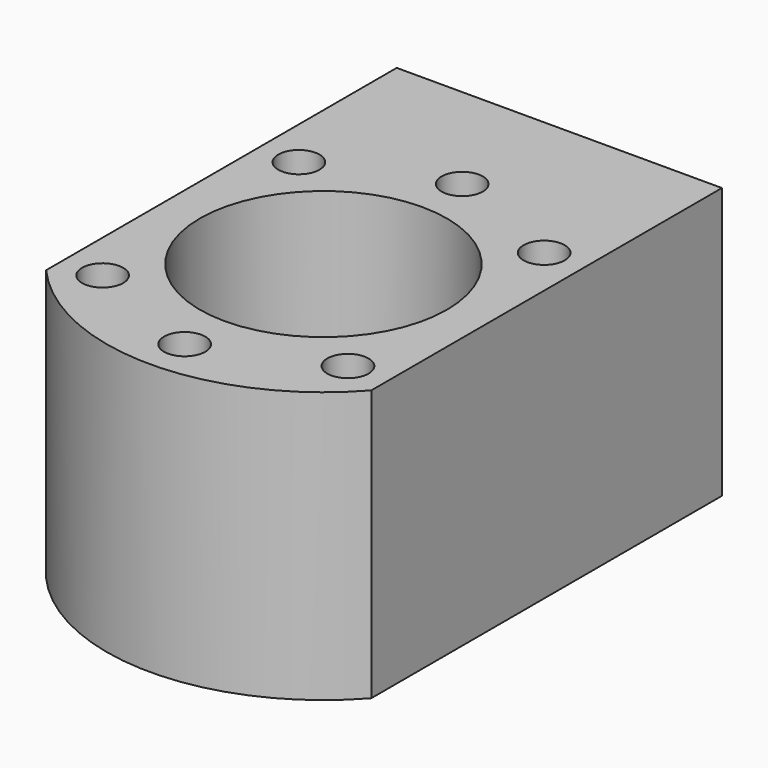
from build123d import *

# Parameters (mm, degrees)
F0_R     = 1.9
F0_R_2   = 11.4
F1_DEPTH = 25
F3_DEPTH = 15.2


with BuildPart() as f1:
    # F0 (on Top) → F1 (new body)
    with BuildSketch(Plane.XY):
        with BuildLine():
            ThreePointArc((-15, 13.228757), (0, 20), (15, 13.228757))
            Line((15, 13.228757), (15, 27.2))
            Line((15, 27.2), (-15, 27.2))
            Line((-15, 27.2), (-15, 13.228757))
        make_face()
        with BuildLine():
            ThreePointArc((-15, -13.228757), (0, -20), (15, -13.228757))
            Line((15, -13.228757), (15, 13.228757))
            ThreePointArc((15, 13.228757), (0, 20), (-15, 13.228757))
            Line((-15, 13.228757), (-15, -13.228757))
        make_face()
        with Locations((-11.313708, -11.313708)):
            Circle(F0_R, mode=Mode.SUBTRACT)
        with Locations((0, -16)):
            Circle(F0_R, mode=Mode.SUBTRACT)
        with Locations((11.313708, -11.313708)):
            Circle(F0_R, mode=Mode.SUBTRACT)
        with Locations((-11.313708, 11.313708)):
            Circle(F0_R, mode=Mode.SUBTRACT)
        Circle(F0_R_2, mode=Mode.SUBTRACT)
        with Locations((11.313708, 11.313708)):
            Circle(F0_R, mode=Mode.SUBTRACT)
        with Locations((0, 16)):
            Circle(F0_R, mode=Mode.SUBTRACT)
        with BuildLine():
            ThreePointArc((-15, 13.228757), (0, 20), (15, 13.228757))
            Line((15, 13.228757), (15, 27.2))
            Line((15, 27.2), (-15, 27.2))
            Line((-15, 27.2), (-15, 13.228757))
        make_face()
    extrude(amount=F1_DEPTH)

    # F2 (on face) → F3 (cut)
    with BuildSketch(Plane(origin=(0, 27.2, 0), x_dir=(-1, 0, 0), z_dir=(0, 1, 0))):
        with BuildLine():
            ThreePointArc((-1.5, 12.5), (-3.4, 14.4), (-5.3, 12.5))
            Line((-5.3, 12.5), (-1.5, 12.5))
        make_face()
        with BuildLine():
            ThreePointArc((9.8, 12.5), (7.9, 14.4), (6, 12.5))
            Line((6, 12.5), (9.8, 12.5))
        make_face()
        with BuildLine():
            Line((9.8, 12.5), (6, 12.5))
            ThreePointArc((6, 12.5), (7.9, 10.6), (9.8, 12.5))
        make_face()
        with BuildLine():
            Line((-1.5, 12.5), (-5.3, 12.5))
            ThreePointArc((-5.3, 12.5), (-3.4, 10.6), (-1.5, 12.5))
        make_face()
    extrude(amount=-F3_DEPTH, mode=Mode.SUBTRACT)


solid = f1.part
